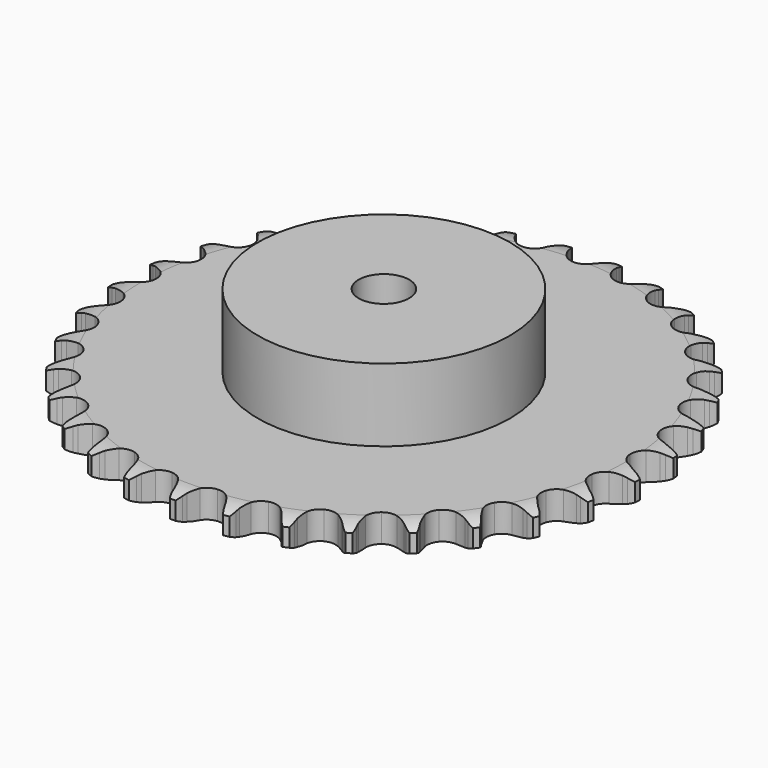
from build123d import *

# Parameters (mm, degrees)
PAD_DEPTH         = 11.1
SKETCH001_R       = 50
PAD001_DEPTH      = 40
SKETCH002_R       = 10
POCKET_DEPTH      = 0.001
POCKET_DEPTH_BACK = 40.001


with BuildPart() as part:
    # Sprocket → Pad (new body)
    with BuildSketch(Plane.XY):
        with BuildLine():
            ThreePointArc((-10.099295, 105.764603), (-8.644231, 104.046053), (-7.618616, 102.041373))
            Line((-7.618616, 102.041373), (-7.029788, 100.467752))
            ThreePointArc((-7.029788, 100.467752), (-6.097562, 98.430739), (-4.885923, 96.546488))
            ThreePointArc((-4.885923, 96.546488), (-2.731931, 94.746342), (0, 94.10077))
            ThreePointArc((0, 94.10077), (2.731931, 94.746342), (4.885923, 96.546488))
            ThreePointArc((4.885923, 96.546488), (6.097562, 98.430739), (7.029788, 100.467752))
            Line((7.029788, 100.467752), (7.618616, 102.041373))
            ThreePointArc((7.618616, 102.041373), (8.644231, 104.046053), (10.099295, 105.764603))
            ThreePointArc((10.099295, 105.764603), (11.202827, 103.801737), (11.83052, 101.639185))
            Line((11.83052, 101.639185), (12.110896, 99.982565))
            ThreePointArc((12.110896, 99.982565), (12.640769, 97.805938), (13.473915, 95.726434))
            ThreePointArc((13.473915, 95.726434), (15.248302, 93.551173), (17.808688, 92.400246))
            ThreePointArc((17.808688, 92.400246), (20.613424, 92.517131), (23.069171, 93.8771))
            Line((23.069171, 93.8771), (25.916398, 97.321773))
            ThreePointArc((25.916398, 97.321773), (26.335275, 98.050329), (26.792394, 98.75552))
            ThreePointArc((26.792394, 98.75552), (28.178863, 100.529874), (29.93287, 101.941995))
            ThreePointArc((29.93287, 101.941995), (30.644985, 99.805755), (30.852069, 97.563492))
            Line((30.852069, 97.563492), (30.813861, 95.883748))
            ThreePointArc((30.813861, 95.883748), (30.922229, 93.646176), (31.34677, 91.446578))
            ThreePointArc((31.34677, 91.446578), (32.677421, 88.974822), (34.973723, 87.360137))
            ThreePointArc((34.973723, 87.360137), (37.749895, 86.944109), (40.418639, 87.814749))
            Line((40.418639, 87.814749), (43.866322, 90.658331))
            ThreePointArc((43.866322, 90.658331), (44.415509, 91.294448), (44.997826, 91.900385))
            ThreePointArc((44.997826, 91.900385), (46.695038, 93.380283), (48.684594, 94.434937))
            ThreePointArc((48.684594, 94.434937), (48.979554, 92.202534), (48.758544, 89.9616))
            Line((48.758544, 89.9616), (48.403133, 88.319442))
            ThreePointArc((48.403133, 88.319442), (48.08608, 86.101798), (48.086672, 83.861604))
            ThreePointArc((48.086672, 83.861604), (48.925493, 81.182688), (50.874717, 79.162605))
            ThreePointArc((50.874717, 79.162605), (53.521986, 78.228701), (56.307273, 78.578545))
            Line((56.307273, 78.578545), (60.230802, 80.718261))
            ThreePointArc((60.230802, 80.718261), (60.890451, 81.238948), (61.576919, 81.723731))
            ThreePointArc((61.576919, 81.723731), (63.523533, 82.855686), (65.676729, 83.514755))
            ThreePointArc((65.676729, 83.514755), (65.543873, 81.266872), (64.902759, 79.108262))
            Line((64.902759, 79.108262), (64.24299, 77.563041))
            ThreePointArc((64.24299, 77.563041), (63.511974, 75.445476), (63.088596, 73.245653))
            ThreePointArc((63.088596, 73.245653), (63.405271, 70.456401), (64.936966, 68.10393))
            ThreePointArc((64.936966, 68.10393), (67.359653, 66.685904), (70.160814, 66.502307))
            Line((70.160814, 66.502307), (74.418384, 67.860822))
            ThreePointArc((74.418384, 67.860822), (75.164653, 68.247261), (75.930462, 68.593368))
            ThreePointArc((75.930462, 68.593368), (78.056121, 69.336468), (80.295136, 69.576132))
            ThreePointArc((80.295136, 69.576132), (79.739267, 67.394014), (78.701218, 65.395745))
            Line((78.701218, 65.395745), (77.760937, 64.00331))
            ThreePointArc((77.760937, 64.00331), (76.64238, 62.062357), (75.810334, 59.982413))
            ThreePointArc((75.810334, 59.982413), (75.593416, 57.183635), (76.652224, 54.583802))
            ThreePointArc((76.652224, 54.583802), (78.762767, 52.732905), (81.478561, 52.022502))
            Line((81.478561, 52.022502), (85.916292, 52.550717))
            ThreePointArc((85.916292, 52.550717), (86.722209, 52.78894), (87.53968, 52.983863))
            ThreePointArc((87.53968, 52.983863), (89.767558, 53.31125), (92.011468, 53.122846))
            ThreePointArc((92.011468, 53.122846), (91.052676, 51.085361), (89.655211, 49.319655))
            Line((89.655211, 49.319655), (88.468402, 48.130333))
            ThreePointArc((88.468402, 48.130333), (87.002731, 46.436144), (85.792089, 44.551253))
            ThreePointArc((85.792089, 44.551253), (85.049419, 41.844105), (85.597071, 39.090872))
            ThreePointArc((85.597071, 39.090872), (87.319189, 36.874001), (89.851461, 35.662468))
            Line((89.851461, 35.662468), (94.308961, 35.341292))
            ThreePointArc((94.308961, 35.341292), (95.145398, 35.422689), (95.984985, 35.459382))
            ThreePointArc((95.984985, 35.459382), (98.234562, 35.359224), (100.402266, 34.749562))
            ThreePointArc((100.402266, 34.749562), (99.075203, 32.93035), (97.36883, 31.461024))
            Line((97.36883, 31.461024), (95.978388, 30.5178))
            ThreePointArc((95.978388, 30.5178), (94.218576, 29.131607), (92.673094, 27.509894))
            ThreePointArc((92.673094, 27.509894), (91.431514, 24.992219), (91.448216, 22.185097))
            ThreePointArc((91.448216, 22.185097), (92.719668, 19.682375), (94.976894, 18.0135))
            Line((94.976894, 18.0135), (99.293059, 16.854541))
            ThreePointArc((99.293059, 16.854541), (100.129785, 16.77617), (100.961144, 16.653307))
            ThreePointArc((100.961144, 16.653307), (103.151113, 16.129223), (105.164264, 15.120338))
            ThreePointArc((105.164264, 15.120338), (103.516895, 13.58515), (101.563287, 12.46531))
            Line((101.563287, 12.46531), (100.019465, 11.802274))
            ThreePointArc((100.019465, 11.802274), (98.029117, 10.774179), (96.204652, 9.474256))
            ThreePointArc((96.204652, 9.474256), (94.509036, 7.237049), (93.994185, 4.477495))
            ThreePointArc((93.994185, 4.477495), (94.769017, 1.779376), (96.669615, -0.286522))
            Line((96.669615, -0.286522), (100.688447, -2.241378))
            ThreePointArc((100.688447, -2.241378), (101.49522, -2.476684), (102.288303, -2.754662))
            ThreePointArc((102.288303, -2.754662), (104.339513, -3.683729), (106.125352, -5.055374))
            ThreePointArc((106.125352, -5.055374), (104.217217, -6.251052), (102.086981, -6.980932))
            Line((102.086981, -6.980932), (100.445578, -7.339817))
            ThreePointArc((100.445578, -7.339817), (98.296629, -7.972657), (96.259124, -8.903806))
            ThreePointArc((96.259124, -8.903806), (94.170755, -10.779687), (93.142959, -13.391936))
            ThreePointArc((93.142959, -13.391936), (93.393166, -16.187934), (94.868445, -18.57619))
            Line((94.868445, -18.57619), (98.444692, -21.256287))
            ThreePointArc((98.444692, -21.256287), (99.192354, -21.640024), (99.918497, -22.063071))
            ThreePointArc((99.918497, -22.063071), (101.756812, -23.363542), (103.250793, -25.048371))
            ThreePointArc((103.250793, -25.048371), (101.150856, -25.861326), (98.920986, -26.174866))
            Line((98.920986, -26.174866), (97.241326, -26.216627))
            ThreePointArc((97.241326, -26.216627), (95.011446, -26.43134), (92.834539, -26.960062))
            ThreePointArc((92.834539, -26.960062), (90.428898, -28.406816), (88.925304, -30.777347))
            ThreePointArc((88.925304, -30.777347), (88.641844, -33.57017), (89.638481, -36.194465))
            Line((89.638481, -36.194465), (92.642889, -39.502939))
            ThreePointArc((92.642889, -39.502939), (93.304418, -40.021237), (93.937376, -40.574062))
            ThreePointArc((93.937376, -40.574062), (95.496354, -42.198936), (96.644481, -44.136056))
            ThreePointArc((96.644481, -44.136056), (94.42864, -44.536903), (92.179729, -44.422772))
            Line((92.179729, -44.422772), (90.52252, -44.145901))
            ThreePointArc((90.52252, -44.145901), (88.292301, -43.934726), (86.054673, -44.04191))
            ThreePointArc((86.054673, -44.04191), (83.418704, -45.007249), (81.493657, -47.050385))
            ThreePointArc((81.493657, -47.050385), (80.686773, -49.739093), (81.16875, -52.504578))
            Line((81.16875, -52.504578), (83.492731, -56.321851))
            ThreePointArc((83.492731, -56.321851), (84.044216, -56.955978), (84.561114, -57.618601))
            ThreePointArc((84.561114, -57.618601), (85.78441, -59.50915), (86.545186, -61.628548))
            ThreePointArc((86.545186, -61.628548), (84.293528, -61.602801), (82.106857, -61.065123))
            Line((82.106857, -61.065123), (80.531993, -60.479626))
            ThreePointArc((80.531993, -60.479626), (78.382043, -59.850196), (76.164567, -59.53197))
            ThreePointArc((76.164567, -59.53197), (73.393542, -59.981003), (71.116617, -61.622899))
            ThreePointArc((71.116617, -61.622899), (69.815473, -64.110315), (69.765368, -66.917039))
            Line((69.765368, -66.917039), (71.324928, -71.105145))
            ThreePointArc((71.324928, -71.105145), (71.746438, -71.832182), (72.128592, -72.580654))
            ThreePointArc((72.128592, -72.580654), (72.971993, -74.668548), (73.317922, -76.893624))
            ThreePointArc((73.317922, -76.893624), (71.111827, -76.442213), (69.066428, -75.500422))
            Line((69.066428, -75.500422), (67.630831, -74.62746))
            ThreePointArc((67.630831, -74.62746), (65.638853, -73.602524), (63.521674, -72.870388))
            ThreePointArc((63.521674, -72.870388), (60.715745, -72.786888), (58.169236, -73.968201))
            ThreePointArc((58.169236, -73.968201), (56.42086, -76.164423), (55.840484, -78.910943))
            Line((55.840484, -78.910943), (56.579257, -83.318514))
            ThreePointArc((56.579257, -83.318514), (56.855557, -84.112183), (57.089155, -84.919453))
            ThreePointArc((57.089155, -84.919453), (57.522178, -87.129231), (57.440758, -89.379564))
            ThreePointArc((57.440758, -89.379564), (55.35996, -88.518805), (53.529759, -87.206938))
            Line((53.529759, -87.206938), (52.285314, -86.078064))
            ThreePointArc((52.285314, -86.078064), (50.523304, -84.694665), (48.582943, -83.575081))
            ThreePointArc((48.582943, -83.575081), (45.843524, -82.962064), (43.119468, -83.6401))
            ThreePointArc((43.119468, -83.6401), (40.98705, -85.46575), (39.89738, -88.052801))
            Line((39.89738, -88.052801), (39.788663, -92.520535))
            ThreePointArc((39.788663, -92.520535), (39.909767, -93.352152), (39.986368, -94.189042))
            ThreePointArc((39.986368, -94.189042), (39.993362, -96.440836), (39.487535, -98.635093))
            ThreePointArc((39.487535, -98.635093), (37.607239, -97.396096), (36.058385, -95.761569))
            Line((36.058385, -95.761569), (35.050069, -94.417582))
            ThreePointArc((35.050069, -94.417582), (33.581712, -92.725721), (31.888298, -91.259153))
            ThreePointArc((31.888298, -91.259153), (29.314398, -90.138775), (26.51125, -90.289027))
            ThreePointArc((26.51125, -90.289027), (24.071861, -91.678123), (22.51228, -94.012201))
            Line((22.51228, -94.012201), (21.560004, -98.378622))
            ThreePointArc((21.560004, -98.378622), (21.521535, -99.21813), (21.438369, -100.054393))
            ThreePointArc((21.438369, -100.054393), (21.019082, -102.266818), (20.107129, -104.325694))
            ThreePointArc((20.107129, -104.325694), (18.495295, -102.753238), (17.283767, -100.855127))
            Line((17.283767, -100.855127), (16.548024, -99.344602))
            ThreePointArc((16.548024, -99.344602), (15.426388, -97.405427), (14.041127, -95.644882))
            ThreePointArc((14.041127, -95.644882), (11.725773, -94.057637), (8.944847, -93.674674))
            ThreePointArc((8.944847, -93.674674), (6.286652, -94.57701), (4.313528, -96.573755))
            Line((4.313528, -96.573755), (2.55211, -100.68105))
            ThreePointArc((2.55211, -100.68105), (2.355458, -101.498106), (2.115531, -102.303518))
            ThreePointArc((2.115531, -102.303518), (1.285117, -104.396611), (0, -106.245692))
            ThreePointArc((0, -106.245692), (-1.285117, -104.396611), (-2.115531, -102.303518))
            Line((-2.115531, -102.303518), (-2.55211, -100.68105))
            ThreePointArc((-2.55211, -100.68105), (-3.286485, -98.564647), (-4.313528, -96.573755))
            ThreePointArc((-4.313528, -96.573755), (-6.286652, -94.57701), (-8.944847, -93.674674))
            ThreePointArc((-8.944847, -93.674674), (-11.725773, -94.057637), (-14.041127, -95.644882))
            Line((-14.041127, -95.644882), (-16.548024, -99.344602))
            ThreePointArc((-16.548024, -99.344602), (-16.895751, -100.109677), (-17.283767, -100.855127))
            ThreePointArc((-17.283767, -100.855127), (-18.495295, -102.753238), (-20.107129, -104.325694))
            ThreePointArc((-20.107129, -104.325694), (-21.019082, -102.266818), (-21.438369, -100.054393))
            Line((-21.438369, -100.054393), (-21.560004, -98.378622))
            ThreePointArc((-21.560004, -98.378622), (-21.880576, -96.161484), (-22.51228, -94.012201))
            ThreePointArc((-22.51228, -94.012201), (-24.071861, -91.678123), (-26.51125, -90.289027))
            ThreePointArc((-26.51125, -90.289027), (-29.314398, -90.138775), (-31.888298, -91.259153))
            Line((-31.888298, -91.259153), (-35.050069, -94.417582))
            ThreePointArc((-35.050069, -94.417582), (-35.536303, -95.103023), (-36.058385, -95.761569))
            ThreePointArc((-36.058385, -95.761569), (-37.607239, -97.396096), (-39.487535, -98.635093))
            ThreePointArc((-39.487535, -98.635093), (-39.993362, -96.440836), (-39.986368, -94.189042))
            Line((-39.986368, -94.189042), (-39.788663, -92.520535))
            ThreePointArc((-39.788663, -92.520535), (-39.683846, -90.282795), (-39.89738, -88.052801))
            ThreePointArc((-39.89738, -88.052801), (-40.98705, -85.46575), (-43.119468, -83.6401))
            ThreePointArc((-43.119468, -83.6401), (-45.843524, -82.962064), (-48.582943, -83.575081))
            Line((-48.582943, -83.575081), (-52.285314, -86.078064))
            ThreePointArc((-52.285314, -86.078064), (-52.892481, -86.659097), (-53.529759, -87.206938))
            ThreePointArc((-53.529759, -87.206938), (-55.35996, -88.518805), (-57.440758, -89.379564))
            ThreePointArc((-57.440758, -89.379564), (-57.522178, -87.129231), (-57.089155, -84.919453))
            Line((-57.089155, -84.919453), (-56.579257, -83.318514))
            ThreePointArc((-56.579257, -83.318514), (-56.052838, -81.14105), (-55.840484, -78.910943))
            ThreePointArc((-55.840484, -78.910943), (-56.42086, -76.164423), (-58.169236, -73.968201))
            ThreePointArc((-58.169236, -73.968201), (-60.715745, -72.786888), (-63.521674, -72.870388))
            Line((-63.521674, -72.870388), (-67.630831, -74.62746))
            ThreePointArc((-67.630831, -74.62746), (-68.336987, -75.083087), (-69.066428, -75.500422))
            ThreePointArc((-69.066428, -75.500422), (-71.111827, -76.442213), (-73.317922, -76.893624))
            ThreePointArc((-73.317922, -76.893624), (-72.971993, -74.668548), (-72.128592, -72.580654))
            Line((-72.128592, -72.580654), (-71.324928, -71.105145))
            ThreePointArc((-71.324928, -71.105145), (-70.395935, -69.066656), (-69.765368, -66.917039))
            ThreePointArc((-69.765368, -66.917039), (-69.815473, -64.110315), (-71.116617, -61.622899))
            ThreePointArc((-71.116617, -61.622899), (-73.393542, -59.981003), (-76.164567, -59.53197))
            Line((-76.164567, -59.53197), (-80.531993, -60.479626))
            ThreePointArc((-80.531993, -60.479626), (-81.311617, -60.793378), (-82.106857, -61.065123))
            ThreePointArc((-82.106857, -61.065123), (-84.293528, -61.602801), (-86.545186, -61.628548))
            ThreePointArc((-86.545186, -61.628548), (-85.78441, -59.50915), (-84.561114, -57.618601))
            Line((-84.561114, -57.618601), (-83.492731, -56.321851))
            ThreePointArc((-83.492731, -56.321851), (-82.194739, -54.496013), (-81.16875, -52.504578))
            ThreePointArc((-81.16875, -52.504578), (-80.686773, -49.739093), (-81.493657, -47.050385))
            ThreePointArc((-81.493657, -47.050385), (-83.418704, -45.007249), (-86.054673, -44.04191))
            Line((-86.054673, -44.04191), (-90.52252, -44.145901))
            ThreePointArc((-90.52252, -44.145901), (-91.347432, -44.306437), (-92.179729, -44.422772))
            ThreePointArc((-92.179729, -44.422772), (-94.42864, -44.536903), (-96.644481, -44.136056))
            ThreePointArc((-96.644481, -44.136056), (-95.496354, -42.198936), (-93.937376, -40.574062))
            Line((-93.937376, -40.574062), (-92.642889, -39.502939))
            ThreePointArc((-92.642889, -39.502939), (-91.022812, -37.955742), (-89.638481, -36.194465))
            ThreePointArc((-89.638481, -36.194465), (-88.641844, -33.57017), (-88.925304, -30.777347))
            ThreePointArc((-88.925304, -30.777347), (-90.428898, -28.406816), (-92.834539, -26.960062))
            Line((-92.834539, -26.960062), (-97.241326, -26.216627))
            ThreePointArc((-97.241326, -26.216627), (-98.081713, -26.218147), (-98.920986, -26.174866))
            ThreePointArc((-98.920986, -26.174866), (-101.150856, -25.861326), (-103.250793, -25.048371))
            ThreePointArc((-103.250793, -25.048371), (-101.756812, -23.363542), (-99.918497, -22.063071))
            Line((-99.918497, -22.063071), (-98.444692, -21.256287))
            ThreePointArc((-98.444692, -21.256287), (-96.561082, -20.043652), (-94.868445, -18.57619))
            ThreePointArc((-94.868445, -18.57619), (-93.393166, -16.187934), (-93.142959, -13.391936))
            ThreePointArc((-93.142959, -13.391936), (-94.170755, -10.779687), (-96.259124, -8.903806))
            Line((-96.259124, -8.903806), (-100.445578, -7.339817))
            ThreePointArc((-100.445578, -7.339817), (-101.271066, -7.182265), (-102.086981, -6.980932))
            ThreePointArc((-102.086981, -6.980932), (-104.217217, -6.251052), (-106.125352, -5.055374))
            ThreePointArc((-106.125352, -5.055374), (-104.339513, -3.683729), (-102.288303, -2.754662))
            Line((-102.288303, -2.754662), (-100.688447, -2.241378))
            ThreePointArc((-100.688447, -2.241378), (-98.609384, -1.407132), (-96.669615, -0.286522))
            ThreePointArc((-96.669615, -0.286522), (-94.769017, 1.779376), (-93.994185, 4.477495))
            ThreePointArc((-93.994185, 4.477495), (-94.509036, 7.237049), (-96.204652, 9.474256))
            Line((-96.204652, 9.474256), (-100.019465, 11.802274))
            ThreePointArc((-100.019465, 11.802274), (-100.800219, 12.113203), (-101.563287, 12.46531))
            ThreePointArc((-101.563287, 12.46531), (-103.516895, 13.58515), (-105.164264, 15.120338))
            ThreePointArc((-105.164264, 15.120338), (-103.151113, 16.129223), (-100.961144, 16.653307))
            Line((-100.961144, 16.653307), (-99.293059, 16.854541))
            ThreePointArc((-99.293059, 16.854541), (-97.093685, 17.280245), (-94.976894, 18.0135))
            ThreePointArc((-94.976894, 18.0135), (-92.719668, 19.682375), (-91.448216, 22.185097))
            ThreePointArc((-91.448216, 22.185097), (-91.431514, 24.992219), (-92.673094, 27.509894))
            Line((-92.673094, 27.509894), (-95.978388, 30.5178))
            ThreePointArc((-95.978388, 30.5178), (-96.686188, 30.970869), (-97.36883, 31.461024))
            ThreePointArc((-97.36883, 31.461024), (-99.075203, 32.93035), (-100.402266, 34.749562))
            ThreePointArc((-100.402266, 34.749562), (-98.234562, 35.359224), (-95.984985, 35.459382))
            Line((-95.984985, 35.459382), (-94.308961, 35.341292))
            ThreePointArc((-94.308961, 35.341292), (-92.068768, 35.343069), (-89.851461, 35.662468))
            ThreePointArc((-89.851461, 35.662468), (-87.319189, 36.874001), (-85.597071, 39.090872))
            ThreePointArc((-85.597071, 39.090872), (-85.049419, 41.844105), (-85.792089, 44.551253))
            Line((-85.792089, 44.551253), (-88.468402, 48.130333))
            ThreePointArc((-88.468402, 48.130333), (-89.077668, 48.709166), (-89.655211, 49.319655))
            ThreePointArc((-89.655211, 49.319655), (-91.052676, 51.085361), (-92.011468, 53.122846))
            ThreePointArc((-92.011468, 53.122846), (-89.767558, 53.31125), (-87.53968, 52.983863))
            Line((-87.53968, 52.983863), (-85.916292, 52.550717))
            ThreePointArc((-85.916292, 52.550717), (-83.716246, 52.128503), (-81.478561, 52.022502))
            ThreePointArc((-81.478561, 52.022502), (-78.762767, 52.732905), (-76.652224, 54.583802))
            ThreePointArc((-76.652224, 54.583802), (-75.593416, 57.183635), (-75.810334, 59.982413))
            Line((-75.810334, 59.982413), (-77.760937, 64.00331))
            ThreePointArc((-77.760937, 64.00331), (-78.249648, 64.686988), (-78.701218, 65.395745))
            ThreePointArc((-78.701218, 65.395745), (-79.739267, 67.394014), (-80.295136, 69.576132))
            ThreePointArc((-80.295136, 69.576132), (-78.056121, 69.336468), (-75.930462, 68.593368))
            Line((-75.930462, 68.593368), (-74.418384, 67.860822))
            ThreePointArc((-74.418384, 67.860822), (-72.338, 67.029877), (-70.160814, 66.502307))
            ThreePointArc((-70.160814, 66.502307), (-67.359653, 66.685904), (-64.936966, 68.10393))
            ThreePointArc((-64.936966, 68.10393), (-63.405271, 70.456401), (-63.088596, 73.245653))
            Line((-63.088596, 73.245653), (-64.24299, 77.563041))
            ThreePointArc((-64.24299, 77.563041), (-64.593482, 78.326853), (-64.902759, 79.108262))
            ThreePointArc((-64.902759, 79.108262), (-65.543873, 81.266872), (-65.676729, 83.514755))
            ThreePointArc((-65.676729, 83.514755), (-63.523533, 82.855686), (-61.576919, 81.723731))
            Line((-61.576919, 81.723731), (-60.230802, 80.718261))
            ThreePointArc((-60.230802, 80.718261), (-58.345271, 79.508616), (-56.307273, 78.578545))
            ThreePointArc((-56.307273, 78.578545), (-53.521986, 78.228701), (-50.874717, 79.162605))
            ThreePointArc((-50.874717, 79.162605), (-48.925493, 81.182688), (-48.086672, 83.861604))
            Line((-48.086672, 83.861604), (-48.403133, 88.319442))
            ThreePointArc((-48.403133, 88.319442), (-48.602739, 89.135781), (-48.758544, 89.9616))
            ThreePointArc((-48.758544, 89.9616), (-48.979554, 92.202534), (-48.684594, 94.434937))
            ThreePointArc((-48.684594, 94.434937), (-46.695038, 93.380283), (-44.997826, 91.900385))
            Line((-44.997826, 91.900385), (-43.866322, 90.658331))
            ThreePointArc((-43.866322, 90.658331), (-42.243791, 89.113707), (-40.418639, 87.814749))
            ThreePointArc((-40.418639, 87.814749), (-37.749895, 86.944109), (-34.973723, 87.360137))
            ThreePointArc((-34.973723, 87.360137), (-32.677421, 88.974822), (-31.34677, 91.446578))
            Line((-31.34677, 91.446578), (-30.813861, 95.883748))
            ThreePointArc((-30.813861, 95.883748), (-30.855367, 96.72311), (-30.852069, 97.563492))
            ThreePointArc((-30.852069, 97.563492), (-30.644985, 99.805755), (-29.93287, 101.941995))
            ThreePointArc((-29.93287, 101.941995), (-28.178863, 100.529874), (-26.792394, 98.75552))
            Line((-26.792394, 98.75552), (-25.916398, 97.321773))
            ThreePointArc((-25.916398, 97.321773), (-24.615511, 95.497996), (-23.069171, 93.8771))
            ThreePointArc((-23.069171, 93.8771), (-20.613424, 92.517131), (-17.808688, 92.400246))
            ThreePointArc((-17.808688, 92.400246), (-15.248302, 93.551173), (-13.473915, 95.726434))
            Line((-13.473915, 95.726434), (-12.110896, 99.982565))
            ThreePointArc((-12.110896, 99.982565), (-11.992801, 100.814614), (-11.83052, 101.639185))
            ThreePointArc((-11.83052, 101.639185), (-11.202827, 103.801737), (-10.099295, 105.764603))
        make_face()
    extrude(amount=PAD_DEPTH)

    # Sketch → Groove (revolve, cut)
    with BuildSketch(Plane.XZ):
        with BuildLine():
            Line((96.164719, 0), (104.65, 0))
            Line((113.135281, 0), (104.65, 0))
            Line((113.135281, 11.1), (113.135281, 0))
            Line((104.65, 11.1), (113.135281, 11.1))
            Line((96.164719, 11.1), (104.65, 11.1))
            ThreePointArc((104.65, 9.1), (100.523618, 10.593242), (96.164719, 11.1))
            Line((104.65, 2), (104.65, 9.1))
            ThreePointArc((96.164719, 0), (100.523618, 0.506758), (104.65, 2))
        make_face()
    revolve(axis=Axis((0, 0, 0), (0, 0, 1)), mode=Mode.SUBTRACT)

    # Sketch001 → Pad001 (join)
    with BuildSketch(Plane.XY):
        Circle(SKETCH001_R)
    extrude(amount=PAD001_DEPTH)

    # Sketch002 → Pocket (cut, two sides)
    with BuildSketch(Plane.XY) as pocket_sk:
        Circle(SKETCH002_R)
    extrude(amount=-POCKET_DEPTH, mode=Mode.SUBTRACT)
    extrude(pocket_sk.sketch, amount=POCKET_DEPTH_BACK, mode=Mode.SUBTRACT)


solid = part.part
